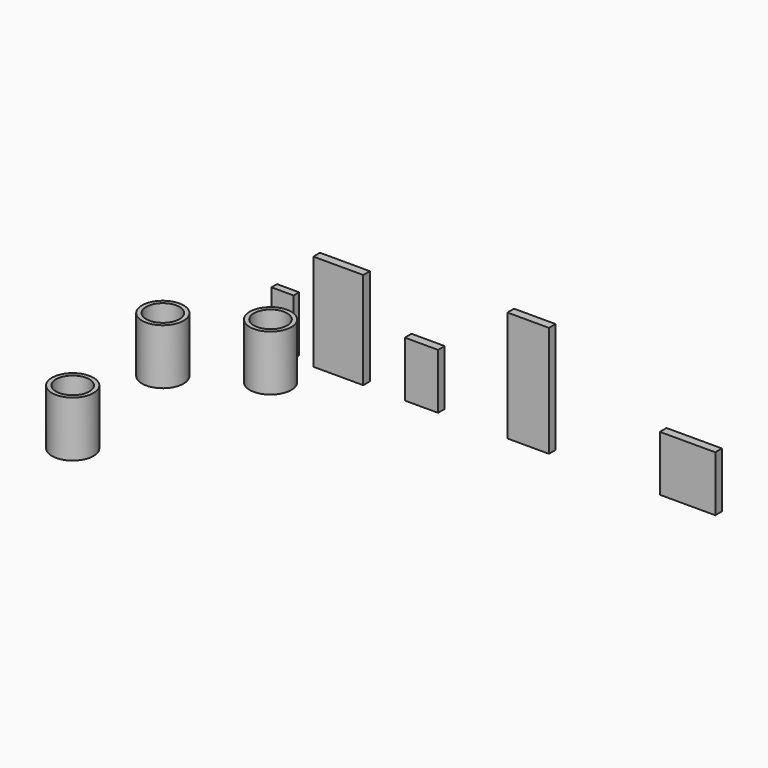
from build123d import *

# Parameters (mm, degrees)
F0_W        = 8
F0_H        = 2.5
F0_W_2      = 18
F0_H_2      = 3
F0_W_3      = 12
F0_W_4      = 15
F0_W_5      = 20
F0_R        = 7.5
F0_R_2      = 6
F1_DEPTH    = 20
F1_FACE_W   = 18
F1_FACE_H   = 3
F2_DEPTH    = 35
F1_FACE_W_2 = 15
F3_DEPTH    = 40


with BuildPart() as f1:
    # F0 (on Top) → F1 (new body)
    with BuildSketch(Plane.XY):
        with Locations((-47.370826, -1.25)):
            Rectangle(F0_W, F0_H)
        with Locations((-26.870826, -1.5)):
            Rectangle(F0_W_2, F0_H_2)
        with Locations((3.129174, -1.5)):
            Rectangle(F0_W_3, F0_H_2)
        with Locations((41.629174, -1.5)):
            Rectangle(F0_W_4, F0_H_2)
        with Locations((99.129174, -1.5)):
            Rectangle(F0_W_5, F0_H_2)
        with Locations((-39.360523, -17.943569)):
            Circle(F0_R)
        with Locations((-39.360523, -17.943569)):
            Circle(F0_R_2, mode=Mode.SUBTRACT)
        with Locations((-57.721656, -84.200002)):
            Circle(F0_R)
        with Locations((-57.721656, -84.200002)):
            Circle(F0_R_2, mode=Mode.SUBTRACT)
        with Locations((-65.478727, -33.865448)):
            Circle(F0_R)
        with Locations((-65.478727, -33.865448)):
            Circle(F0_R_2, mode=Mode.SUBTRACT)
    extrude(amount=F1_DEPTH)

    # F1_face (on face) → F2 (join)
    with BuildSketch(Plane(origin=(-26.870826, -1.5, 0), x_dir=(1, 0, 0), z_dir=(0, 0, -1))):
        Rectangle(F1_FACE_W, F1_FACE_H)
    extrude(amount=-F2_DEPTH)

    # F1_face (on face) → F3 (join)
    with BuildSketch(Plane(origin=(-26.870826, -1.5, 0), x_dir=(1, 0, 0), z_dir=(0, 0, -1))):
        with Locations((68.5, 0)):
            Rectangle(F1_FACE_W_2, F1_FACE_H)
    extrude(amount=-F3_DEPTH)


solid = f1.part
